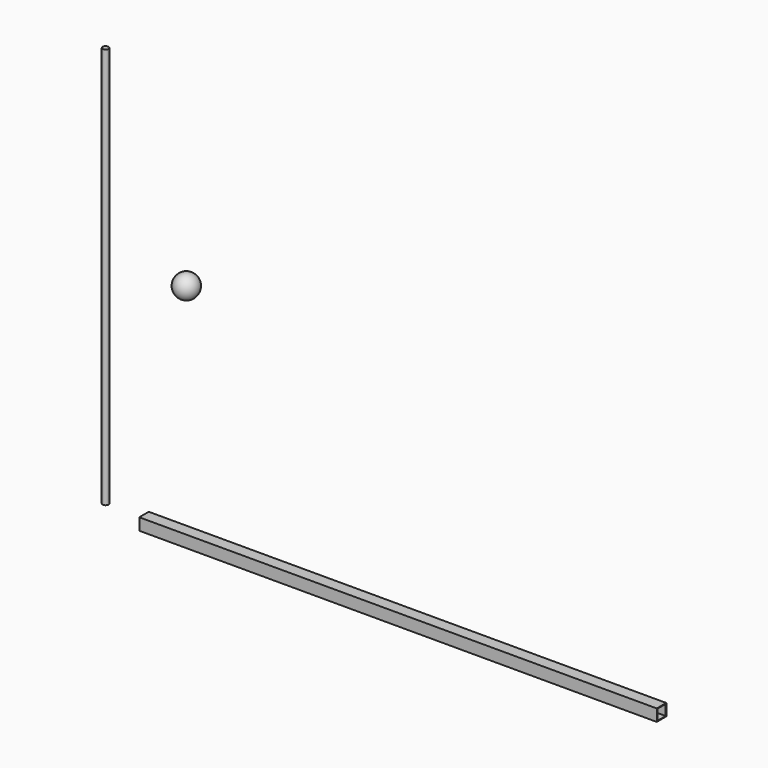
from build123d import *

# Parameters (mm, degrees)
F4_W     = 6.35
F4_H     = 6.35
F4_W_2   = 5.6388
F4_H_2   = 5.6388
F5_DEPTH = 276.47
F6_R     = 1.5875
F7_DEPTH = 214.32


with BuildPart() as f3:
    # F2 (on Right) → F3 (revolve)
    with BuildSketch(Plane.YZ):
        with BuildLine():
            Line((28.5856276751, 98.9358499646), (28.5856276751, 105.0908499646))
            ThreePointArc((28.5856276751, 105.0908499646), (22.482911541, 99.7364002676), (26.9981276751, 92.9890971742))
            Line((26.9981276751, 92.9890971742), (26.9981276751, 98.9358499646))
            Line((26.9981276751, 98.9358499646), (28.5856276751, 98.9358499646))
        make_face()
    revolve(axis=Axis((0, 28.5856276751, 102.0133499646), (0, 0, 1)))


with BuildPart() as f5:
    # F4 (on Right) → F5 (new body)
    with BuildSketch(Plane.YZ):
        with Locations((0.3399441484, -0.3035154659)):
            Rectangle(F4_W, F4_H)
        with Locations((0.3399441484, -0.3035154659)):
            Rectangle(F4_W_2, F4_H_2, mode=Mode.SUBTRACT)
    extrude(amount=F5_DEPTH)


with BuildPart() as f7:
    # F6 (on Top) → F7 (new body)
    with BuildSketch(Plane.XY):
        with Locations((-22.1857912838, 2.3767193779)):
            Circle(F6_R)
    extrude(amount=F7_DEPTH)


solid = Compound([f3.part, f5.part, f7.part])
